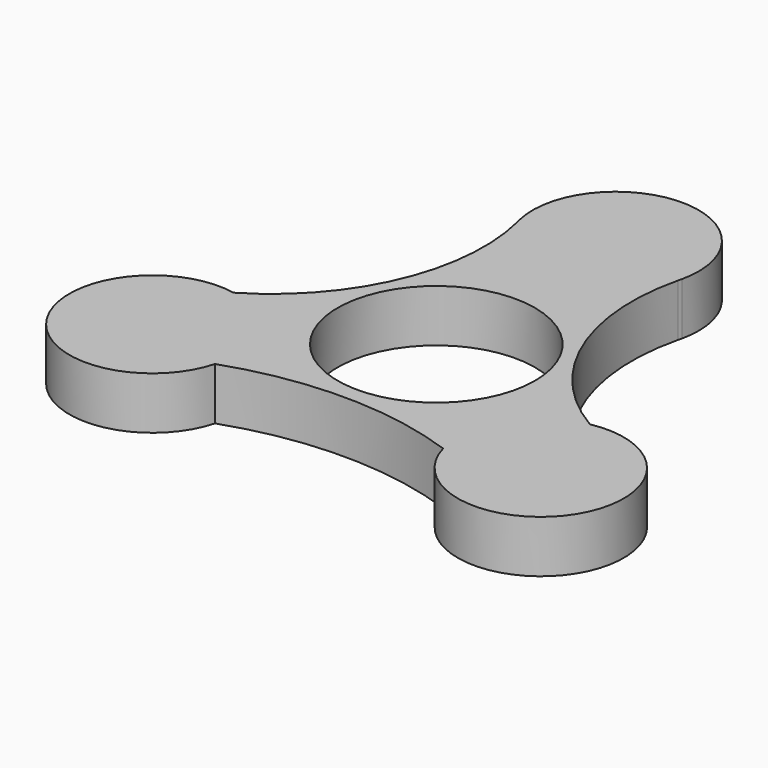
from build123d import *

# Parameters (mm, degrees)
F1_R     = 13.2
F2_DEPTH = 7


with BuildPart() as f2:
    # F1 (on Top) → F2 (new body)
    with BuildSketch(Plane.XY):
        with BuildLine():
            ThreePointArc((10.821909, 27.530935), (10.756845, 27.278632), (10.694101, 27.025743))
            ThreePointArc((10.694101, 27.025743), (10.76097, 27.277589), (10.821909, 27.530935))
        make_face()
        with BuildLine():
            ThreePointArc((23.829551, -4.11045), (12.121504, 9.289095), (10.694101, 27.025743))
            ThreePointArc((10.694101, 27.025743), (10.756845, 27.278632), (10.821909, 27.530935))
            ThreePointArc((10.821909, 27.530935), (0, 41.1), (-10.821909, 27.530935))
            ThreePointArc((-10.821909, 27.530935), (-10.756845, 27.278632), (-10.694101, 27.025743))
            ThreePointArc((-10.694101, 27.025743), (-12.121504, 9.289095), (-23.829551, -4.11045))
            ThreePointArc((-23.829551, -4.11045), (-35.415268, -20.848085), (-15.271056, -17.917565))
            ThreePointArc((-15.271056, -17.917565), (0.00942, -15.335501), (15.28268, -17.959904))
            ThreePointArc((15.28268, -17.959904), (35.426816, -20.829414), (23.829551, -4.11045))
        make_face()
        Circle(F1_R, mode=Mode.SUBTRACT)
        with BuildLine():
            ThreePointArc((-10.694101, 27.025743), (-10.756845, 27.278632), (-10.821909, 27.530935))
            ThreePointArc((-10.821909, 27.530935), (-10.76097, 27.277589), (-10.694101, 27.025743))
        make_face()
    extrude(amount=F2_DEPTH)


solid = f2.part
